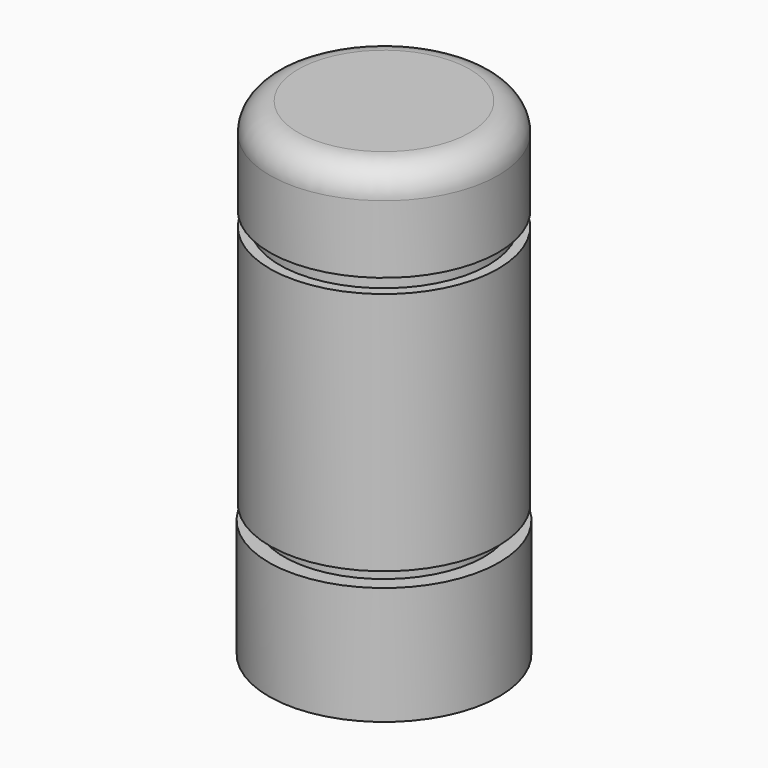
from build123d import *


with BuildPart() as f1:
    # F0 (on Front) → F1 (revolve)
    with BuildSketch(Plane.XZ):
        with BuildLine():
            Line((12.5984, 13.3858), (11.5062, 13.3858))
            Line((11.5062, 13.3858), (11.5062, 14.9606))
            Line((11.5062, 14.9606), (12.5984, 14.9606))
            Line((12.5984, 14.9606), (12.5984, 22.44372))
            ThreePointArc((12.5984, 22.44372), (11.680449, 24.659849), (9.46432, 25.5778))
            Line((9.46432, 25.5778), (0, 25.5778))
            Line((0, 25.5778), (0, -28.1051))
            Line((0, -28.1051), (12.7, -28.1051))
            Line((12.7, -28.1051), (12.7, -15.1003))
            Line((12.7, -15.1003), (11.02614, -15.1003))
            Line((11.02614, -15.1003), (11.02614, -13.5255))
            Line((11.02614, -13.5255), (12.5984, -13.5255))
            Line((12.5984, -13.5255), (12.5984, 13.3858))
        make_face()
    revolve(axis=Axis((0, 0, -1.26365), (0, 0, -1)))


solid = f1.part
